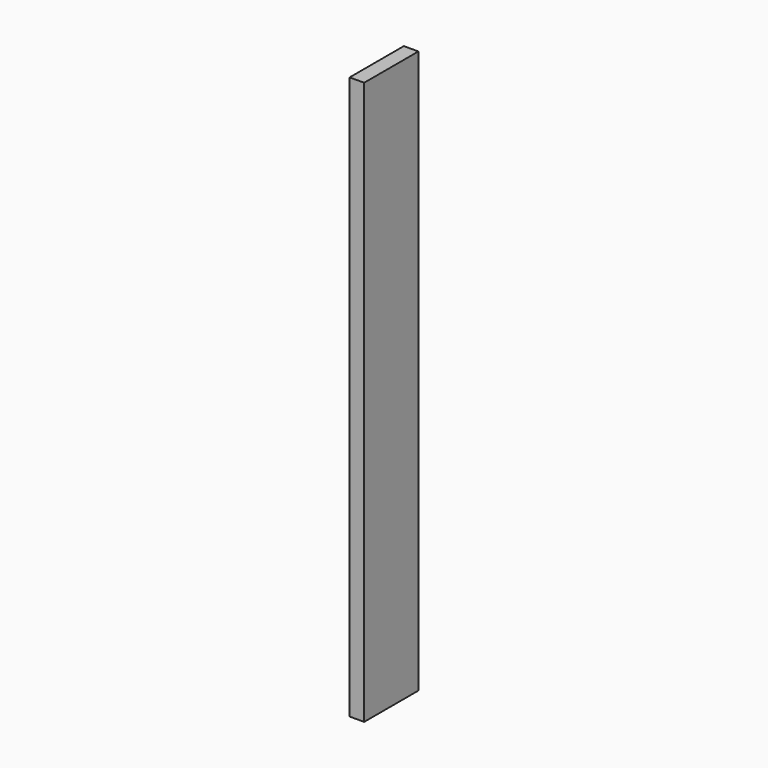
from build123d import *

# Parameters (mm, degrees)
SKETCH_W  = 19.05
SKETCH_H  = 88.9
PAD_DEPTH = 738


with BuildPart() as part:
    # Sketch → Pad (new body)
    with BuildSketch(Plane.XY):
        with Locations((9.525, 44.45)):
            Rectangle(SKETCH_W, SKETCH_H)
    extrude(amount=PAD_DEPTH)


solid = part.part
